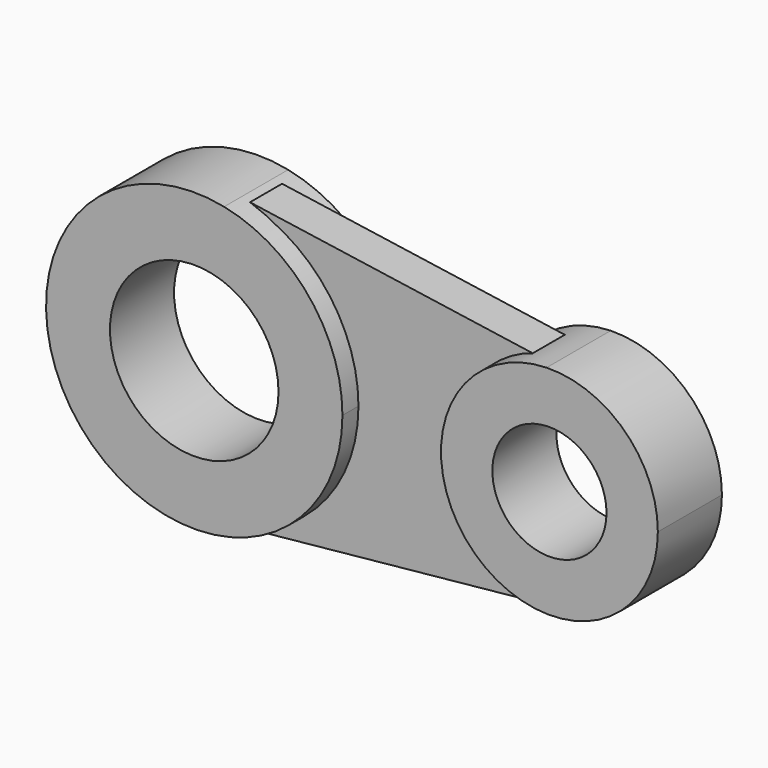
from build123d import *

# Parameters (mm, degrees)
F1_DEPTH = 12.7
F3_DEPTH = 6.35
F4_R     = 26.723498
F5_DEPTH = 25.401
F6_R     = 18.104869
F7_DEPTH = 25.401


with BuildPart() as f1:
    # F0 (on Front) → F1 (new body, symmetric)
    with BuildSketch(Plane.XZ):
        with BuildLine():
            ThreePointArc((-56.871403, -45.564515), (-31.307178, -28.874687), (-21.390911, 0))
            ThreePointArc((-21.390911, 0), (-31.962277, 29.696838), (-58.920643, 46.033987))
            ThreePointArc((-58.920643, 46.033987), (-115.374196, -1.051165), (-56.871403, -45.564515))
        make_face()
        with BuildLine():
            ThreePointArc((78.634202, 0), (68.24179, 24.630053), (43.346882, 34.370963))
            ThreePointArc((43.346882, 34.370963), (9.946156, -2.309847), (47.962708, -34.181967))
            ThreePointArc((47.962708, -34.181967), (69.842243, -22.962727), (78.634202, 0))
        make_face()
    extrude(amount=F1_DEPTH, both=True)

    # F4 (on face) → F5 (cut, through all)
    with BuildSketch(Plane.XZ.offset(12.7)):
        with Locations((-68.388432, 0)):
            Circle(F4_R)
    extrude(amount=-F5_DEPTH, mode=Mode.SUBTRACT)

    # F6 (on face) → F7 (cut, through all)
    with BuildSketch(Plane.XZ.offset(12.7)):
        with Locations((44.251341, 0)):
            Circle(F6_R)
    extrude(amount=-F7_DEPTH, mode=Mode.SUBTRACT)


with BuildPart() as f3:
    # F2 (on Front) → F3 (new body, symmetric)
    with BuildSketch(Plane.XZ):
        with BuildLine():
            Line((36.427606, 32.361206), (-55.773471, 45.741286))
            ThreePointArc((-55.773471, 45.741286), (-22.797004, 1.537062), (-52.160535, -45.14531))
            Line((-52.160535, -45.14531), (48.559688, -35.013687))
            ThreePointArc((48.559688, -35.013687), (11.333443, -6.937205), (36.427606, 32.361206))
        make_face()
    extrude(amount=F3_DEPTH, both=True)


solid = Compound([f1.part, f3.part])
